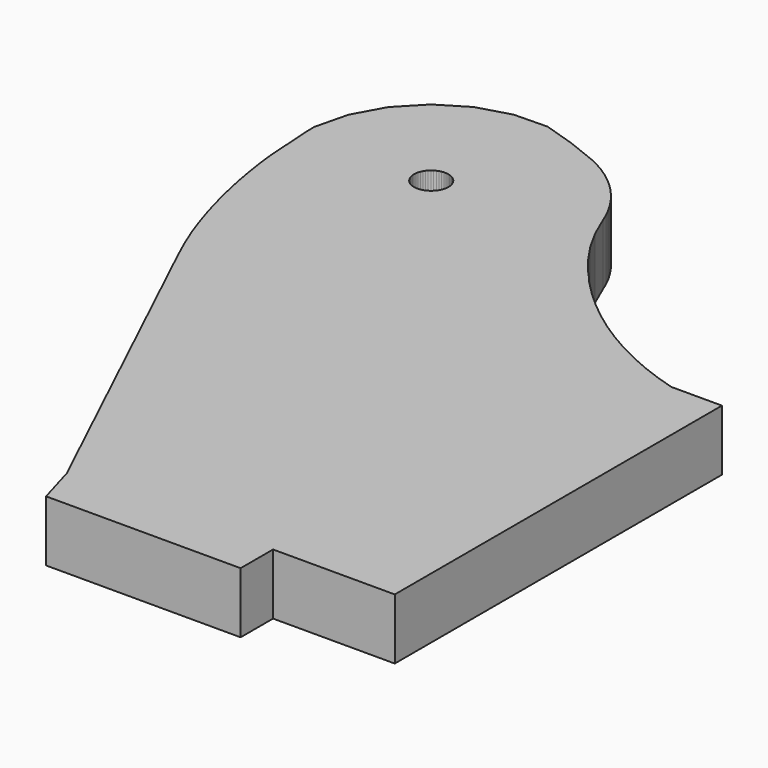
from build123d import *

# Parameters (mm, degrees)
F1_DEPTH = 3


with BuildPart() as f1:
    # F0 (on Top) → F1 (new body)
    with BuildSketch(Plane.XY):
        Polygon((2.510942, 9.469501), (2.373605, 9.605645), (1.790243, 10.337165), (1.153897, 11.268456), (0.607543, 12.255246), (0.155931, 13.288848), (-0.011836, 13.688085), (-0.205334, 14.075512), (-0.423774, 14.44945), (-0.666191, 14.808327), (-0.931545, 15.150541), (-1.218717, 15.474696), (-1.526489, 15.779394), (-1.853514, 16.06329), (-2.198395, 16.32519), (-2.559685, 16.563975), (-2.935808, 16.77863), (-3.325165, 16.968241), (-4.495444, 17.43362), (-4.835398, 17.568824), (-6.383731, 18.062981), (-8.041005, 18.025669), (-9.632137, 17.560696), (-11.048721, 16.699738), (-12.194184, 15.501493), (-12.9905, 14.047597), (-13.383387, 12.437161), (-13.371246, 11.897258), (-13.221005, 9.551822), (-13.127761, 8.77377), (-13.01308, 7.998612), (-12.876987, 7.226884), (-12.719634, 6.459245), (-12.541148, 5.696229), (-12.341606, 4.938446), (-12.12121, 4.186453), (-11.880139, 3.440862), (-11.618519, 2.702204), (-11.229289, 1.746326), (-10.804017, 0.805917), (-2.786634, -16.062985), (-2.205609, -18.063007), (7.383374, -18.063007), (7.383374, -16.062985), (13.383387, -16.062985), (13.383387, 4.095013), (11.383391, 4.095013), (10.88964, 4.095013), (9.997161, 4.375937), (9.121089, 4.704512), (8.263992, 5.079771), (7.428357, 5.500675), (6.616573, 5.965927), (5.831053, 6.474257), (5.074031, 7.024116), (4.347693, 7.61398), (3.654196, 8.242071), (2.995549, 8.906612), align=None)
        Polygon((-6.247359, 11.961622), (-6.227369, 11.856771), (-6.220663, 11.750243), (-6.227369, 11.643716), (-6.247359, 11.538839), (-6.280353, 11.437341), (-6.325794, 11.340744), (-6.382995, 11.250625), (-6.451041, 11.16838), (-6.528841, 11.095304), (-6.615201, 11.032566), (-6.70875, 10.981131), (-6.807987, 10.941837), (-6.911391, 10.915294), (-7.017283, 10.901909), (-7.12404, 10.901909), (-7.229932, 10.915294), (-7.333336, 10.941837), (-7.432573, 10.981131), (-7.526122, 11.032566), (-7.612482, 11.095304), (-7.690282, 11.16838), (-7.758328, 11.250625), (-7.815529, 11.340744), (-7.86097, 11.437341), (-7.893964, 11.538839), (-7.913954, 11.643716), (-7.92066, 11.750243), (-7.913954, 11.856771), (-7.893964, 11.961622), (-7.86097, 12.063146), (-7.815529, 12.159717), (-7.758328, 12.249861), (-7.690282, 12.332106), (-7.612482, 12.405182), (-7.526122, 12.46792), (-7.432573, 12.51933), (-7.333336, 12.558624), (-7.229932, 12.585192), (-7.12404, 12.598552), (-7.017283, 12.598552), (-6.911391, 12.585192), (-6.807987, 12.558624), (-6.70875, 12.51933), (-6.615201, 12.46792), (-6.528841, 12.405182), (-6.451041, 12.332106), (-6.382995, 12.249861), (-6.325794, 12.159717), (-6.280353, 12.063146), align=None, mode=Mode.SUBTRACT)
    extrude(amount=F1_DEPTH)


solid = f1.part
